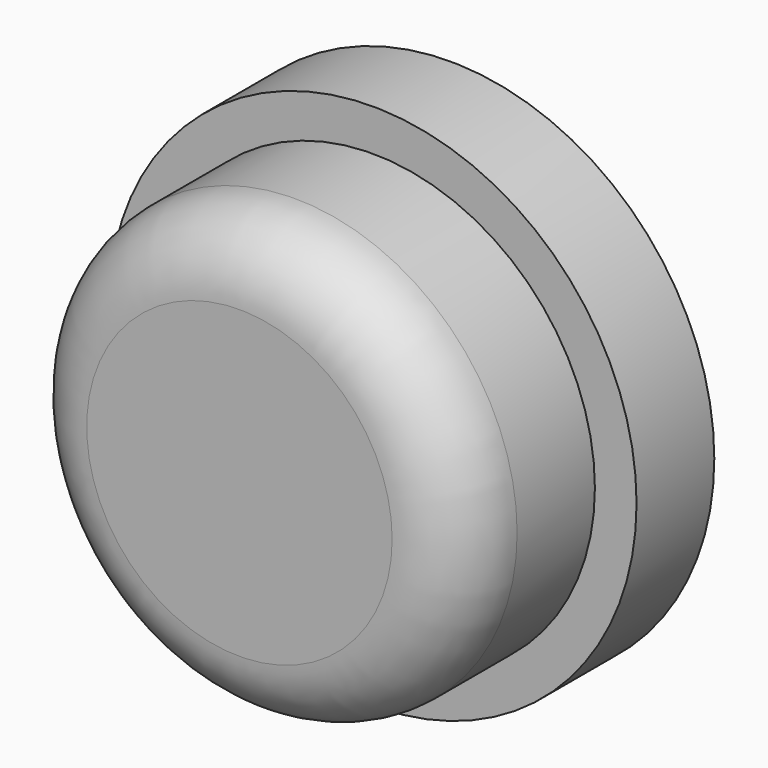
from build123d import *

# Parameters (mm, degrees)
SKETCH046_R     = 3.8
PAD020_DEPTH    = 1.4
SKETCH047_R     = 3.2
PAD021_DEPTH    = 2.4
SKETCH049_R     = 2
POCKET020_DEPTH = 1
FILLET018_R     = 1


with BuildPart() as part:
    # Sketch046 → Pad020 (new body)
    with BuildSketch(Plane.XZ):
        with Locations((28.8, 9.2)):
            Circle(SKETCH046_R)
    extrude(amount=PAD020_DEPTH)

    # Sketch047 (on Face3 of Pad020) → Pad021 (join)
    with BuildSketch(Plane.XZ.offset(1.4)):
        with Locations((28.8, 9.2)):
            Circle(SKETCH047_R)
    extrude(amount=PAD021_DEPTH)

    # Sketch049 (on Face2 of Pad021) → Pocket020 (cut)
    with BuildSketch(Plane(origin=(0, 0, 0), x_dir=(1, 0, 0), z_dir=(0, 1, 0))):
        with Locations((28.8, -9.2)):
            Circle(SKETCH049_R)
    extrude(amount=-POCKET020_DEPTH, mode=Mode.SUBTRACT)

    # Fillet018
    fillet018_edges = [part.edges().sort_by_distance(p)[0] for p in [
        (25.6, -3.8, 9.2),
    ]]
    fillet(fillet018_edges, radius=FILLET018_R)


solid = part.part
